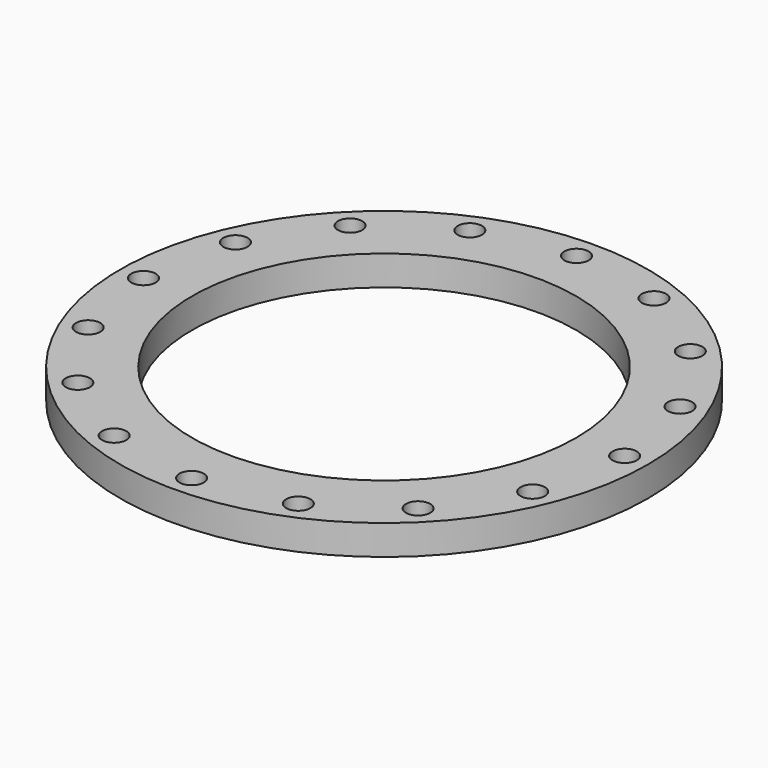
from build123d import *

# Parameters (mm, degrees)
F0_R     = 282.5
F0_R_2   = 13
F0_R_3   = 205.5
F1_DEPTH = 32


with BuildPart() as f1:
    # F0 (on Top) → F1 (new body)
    with BuildSketch(Plane.XY):
        Circle(F0_R)
        with Locations((-182.079996, -182.079996)):
            Circle(F0_R_2, mode=Mode.SUBTRACT)
        with Locations((-98.540984, -237.89898)):
            Circle(F0_R_2, mode=Mode.SUBTRACT)
        with Locations((-237.89898, -98.540984)):
            Circle(F0_R_2, mode=Mode.SUBTRACT)
        with Locations((0, -257.5)):
            Circle(F0_R_2, mode=Mode.SUBTRACT)
        with Locations((98.540984, -237.89898)):
            Circle(F0_R_2, mode=Mode.SUBTRACT)
        with Locations((182.079996, -182.079996)):
            Circle(F0_R_2, mode=Mode.SUBTRACT)
        with Locations((237.89898, -98.540984)):
            Circle(F0_R_2, mode=Mode.SUBTRACT)
        with Locations((-257.5, 0)):
            Circle(F0_R_2, mode=Mode.SUBTRACT)
        with Locations((-237.89898, 98.540984)):
            Circle(F0_R_2, mode=Mode.SUBTRACT)
        with Locations((-182.079996, 182.079996)):
            Circle(F0_R_2, mode=Mode.SUBTRACT)
        with Locations((-98.540984, 237.89898)):
            Circle(F0_R_2, mode=Mode.SUBTRACT)
        Circle(F0_R_3, mode=Mode.SUBTRACT)
        with Locations((257.5, 0)):
            Circle(F0_R_2, mode=Mode.SUBTRACT)
        with Locations((237.89898, 98.540984)):
            Circle(F0_R_2, mode=Mode.SUBTRACT)
        with Locations((0, 257.5)):
            Circle(F0_R_2, mode=Mode.SUBTRACT)
        with Locations((98.540984, 237.89898)):
            Circle(F0_R_2, mode=Mode.SUBTRACT)
        with Locations((182.079996, 182.079996)):
            Circle(F0_R_2, mode=Mode.SUBTRACT)
    extrude(amount=F1_DEPTH)


solid = f1.part
